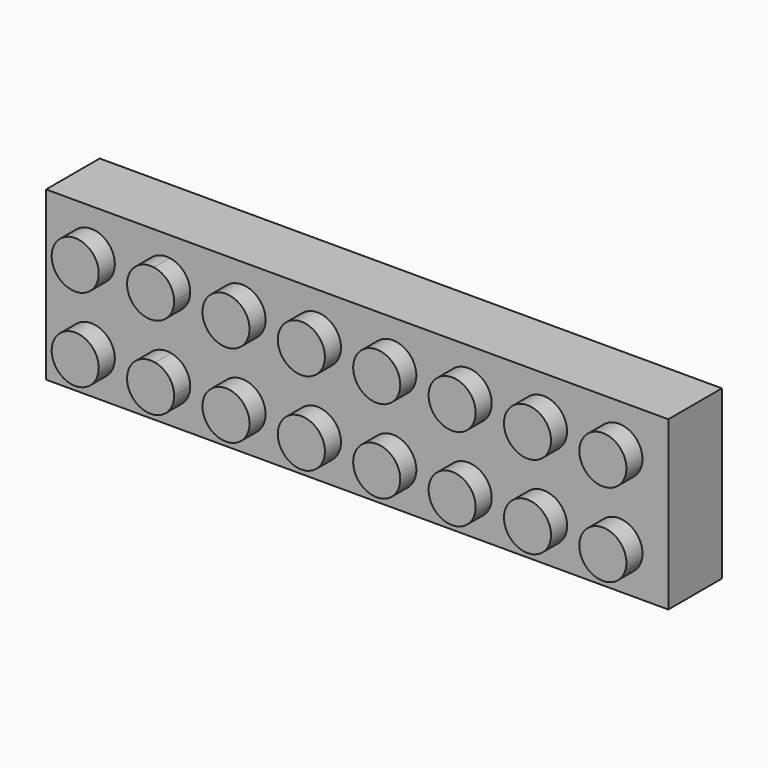
from build123d import *

# Parameters (mm, degrees)
F0_W      = 127
F0_H      = 25.4
F1_DEPTH  = 10.16
F2_R      = 3.5687
F3_DEPTH  = 3.048
F4_T      = -2.54
F5_R      = 4.7444277968
F5_R_2    = 3.6400744996
F6_DEPTH  = 5.588
F7_W      = 34.0172694892
F7_H      = 25.4
F8_DEPTH  = 25.4
F9_W      = 10.16
F9_H      = 25.4
F10_DEPTH = 1.3716


with BuildPart() as f1:
    # F0 (on Front) → F1 (new body)
    with BuildSketch(Plane.XZ):
        with Locations((10.5785235435, 35.8232918932)):
            Rectangle(F0_W, F0_H)
    extrude(amount=F1_DEPTH)

    # F2 (on face) → F3 (join)
    with BuildSketch(Plane.XZ.offset(10.16)):
        with Locations((-46.0632033646, 41.9265590608)):
            Circle(F2_R)
        with Locations((-46.0632033646, 29.322706577)):
            Circle(F2_R)
        with BuildLine():
            ThreePointArc((-31.0645033646, 41.9265590608), (-31.9468505317, 44.2758415358), (-34.1575782363, 45.4634221381))
            Line((-34.1575782363, 45.4634221381), (-34.0381698666, 38.4078157019))
            ThreePointArc((-34.0381698666, 38.4078157019), (-31.9074818331, 39.6230700066), (-31.0645033646, 41.9265590608))
        make_face()
        with BuildLine():
            ThreePointArc((-31.0645033646, 29.322706577), (-31.8767248088, 31.5892999815), (-33.9436726204, 32.8241587104))
            Line((-33.9436726204, 32.8241587104), (-33.8255849878, 25.8465920439))
            ThreePointArc((-33.8255849878, 25.8465920439), (-31.8387653718, 27.1030813847), (-31.0645033646, 29.322706577))
        make_face()
        with BuildLine():
            Line((-33.8255849878, 25.8465920439), (-33.9436726204, 32.8241587104))
            ThreePointArc((-33.9436726204, 32.8241587104), (-38.2013924038, 29.2623189066), (-33.8255849878, 25.8465920439))
        make_face()
        with BuildLine():
            Line((-34.0381698666, 38.4078157019), (-34.1575782363, 45.4634221381))
            ThreePointArc((-34.1575782363, 45.4634221381), (-38.2013924038, 41.8661713904), (-34.0381698666, 38.4078157019))
        make_face()
        with Locations((-23.2032033646, 41.9265590608)):
            Circle(F2_R)
        with Locations((-23.2032033646, 29.322706577)):
            Circle(F2_R)
        with Locations((-11.7732033646, 41.9265590608)):
            Circle(F2_R)
        with Locations((-11.7732033646, 29.322706577)):
            Circle(F2_R)
        with Locations((-0.3432033646, 41.9265590608)):
            Circle(F2_R)
        with Locations((-0.3432033646, 29.322706577)):
            Circle(F2_R)
        with Locations((11.0867966354, 41.9265590608)):
            Circle(F2_R)
        with Locations((11.0867966354, 29.322706577)):
            Circle(F2_R)
        with Locations((22.5167966354, 41.9265590608)):
            Circle(F2_R)
        with Locations((22.5167966354, 29.322706577)):
            Circle(F2_R)
        with Locations((33.9467966354, 41.9265590608)):
            Circle(F2_R)
        with Locations((33.9467966354, 29.322706577)):
            Circle(F2_R)
    extrude(amount=F3_DEPTH)

    # F4
    f4_openings = [f1.faces().sort_by_distance(p)[0] for p in [
        (10.578524, 0, 35.823292),
    ]]
    offset(amount=F4_T, openings=f4_openings, kind=Kind.INTERSECTION)

    # F5 (on face) → F6 (join)
    with BuildSketch(Plane(origin=(0, -7.62, 0), x_dir=(-1, 0, 0), z_dir=(0, 1, 0))):
        with Locations((37.8398224711, 35.6608107686)):
            Circle(F5_R)
        with Locations((37.8398224711, 35.6608107686)):
            Circle(F5_R_2, mode=Mode.SUBTRACT)
        with Locations((22.0918224711, 35.6608107686)):
            Circle(F5_R)
        with Locations((22.0918224711, 35.6608107686)):
            Circle(F5_R_2, mode=Mode.SUBTRACT)
        with Locations((6.3438224711, 35.6608107686)):
            Circle(F5_R)
        with Locations((6.3438224711, 35.6608107686)):
            Circle(F5_R_2, mode=Mode.SUBTRACT)
        with Locations((-9.4041775289, 35.6608107686)):
            Circle(F5_R)
        with Locations((-9.4041775289, 35.6608107686)):
            Circle(F5_R_2, mode=Mode.SUBTRACT)
        with Locations((-25.1521775289, 35.6608107686)):
            Circle(F5_R)
        with Locations((-25.1521775289, 35.6608107686)):
            Circle(F5_R_2, mode=Mode.SUBTRACT)
        with Locations((-40.9001775289, 35.6608107686)):
            Circle(F5_R)
        with Locations((-40.9001775289, 35.6608107686)):
            Circle(F5_R_2, mode=Mode.SUBTRACT)
        with Locations((-56.6481775289, 35.6608107686)):
            Circle(F5_R)
        with Locations((-56.6481775289, 35.6608107686)):
            Circle(F5_R_2, mode=Mode.SUBTRACT)
    extrude(amount=F6_DEPTH)

    # F7 (on face) → F8 (cut)
    with BuildSketch(Plane.XZ.offset(10.16)):
        with Locations((57.0698887989, 35.8232918932)):
            Rectangle(F7_W, F7_H)
    extrude(amount=-F8_DEPTH, mode=Mode.SUBTRACT)

    # F9 (on face) → F10 (join)
    with BuildSketch(Plane.YZ.offset(40.0612540543)):
        with Locations((-5.08, 35.8232918932)):
            Rectangle(F9_W, F9_H)
    extrude(amount=F10_DEPTH)


solid = f1.part
